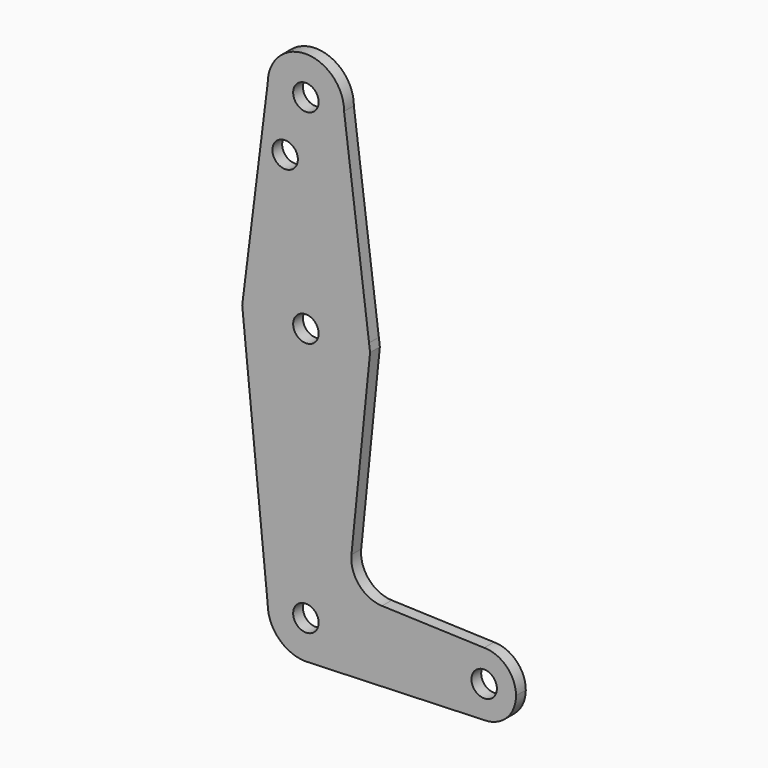
from build123d import *

# Parameters (mm, degrees)
F0_R     = 3.175
F1_DEPTH = 3.048


with BuildPart() as f1:
    # F0 (on Front) → F1 (new body)
    with BuildSketch(Plane.XZ):
        with BuildLine():
            Line((6.4129569231, 19.3691908922), (0.1905000523, 68.1609012961))
            ThreePointArc((0.1905000523, 68.1609012961), (-9.3344999477, 58.6359012961), (-18.8594999477, 68.1609012961))
            Line((-18.8594999477, 68.1609012961), (-24.7210384093, 21.2685936038))
            ThreePointArc((-24.7210384093, 21.2685936038), (-8.3678054821, 33.2064409465), (6.4129569231, 19.3691908922))
        make_face()
        with Locations((-14.5112536848, 53.8861012961)):
            Circle(F0_R, mode=Mode.SUBTRACT)
        with BuildLine():
            ThreePointArc((-18.8594999477, 68.1609012961), (-9.3344999477, 58.6359012961), (0.1905000523, 68.1609012961))
            ThreePointArc((0.1905000523, 68.1609012961), (-9.3344999477, 77.6859012961), (-18.8594999477, 68.1609012961))
        make_face()
        with Locations((-9.3344999477, 68.1609012961)):
            Circle(F0_R, mode=Mode.SUBTRACT)
        with BuildLine():
            ThreePointArc((6.5405000523, 17.3609012961), (6.5085821834, 18.3670690694), (6.4129569231, 19.3691908922))
            ThreePointArc((6.4129569231, 19.3691908922), (-8.3678054821, 33.2064409465), (-24.7210384093, 21.2685936038))
            Line((-24.7210384093, 21.2685936038), (-25.2094999477, 17.3609012961))
            Line((-25.2094999477, 17.3609012961), (-24.8951435121, 14.2173369397))
            ThreePointArc((-24.8951435121, 14.2173369397), (-7.7548784083, 1.5646859016), (6.5405000523, 17.3609012961))
        make_face()
        with Locations((-9.3344999477, 17.3609012961)):
            Circle(F0_R, mode=Mode.SUBTRACT)
        with BuildLine():
            Line((6.6690761551, 17.3609012961), (6.4129569231, 19.3691908922))
            ThreePointArc((6.4129569231, 19.3691908922), (6.5085821834, 18.3670690694), (6.5405000523, 17.3609012961))
            ThreePointArc((6.5405000523, 17.3609012961), (-7.7548784083, 1.5646859016), (-24.8951435121, 14.2173369397))
            Line((-24.8951435121, 14.2173369397), (-18.8594999477, -46.1390987039))
            ThreePointArc((-18.8594999477, -46.1390987039), (-9.3344999477, -36.6140987039), (0.1905000523, -46.1390987039))
            ThreePointArc((0.1905000523, -46.1390987039), (-2.3632098413, -52.6296101823), (-8.6550095019, -55.6398311879))
            Line((-8.6550095019, -55.6398311879), (35.1155000523, -54.0765987039))
            ThreePointArc((35.1155000523, -54.0765987039), (27.1780000523, -46.1390987039), (35.1155000523, -38.2015987039))
            Line((35.1155000523, -38.2015987039), (9.646649469, -37.2919968973))
            ThreePointArc((9.646649469, -37.2919968973), (3.9381775933, -34.5716972044), (2.0206507733, -28.5459381261))
            Line((2.0206507733, -28.5459381261), (6.6690761551, 17.3609012961))
        make_face()
        with BuildLine():
            ThreePointArc((0.1905000523, -46.1390987039), (-9.3344999477, -36.6140987039), (-18.8594999477, -46.1390987039))
            ThreePointArc((-18.8594999477, -46.1390987039), (-16.0696920385, -52.8742907947), (-9.3344999477, -55.6640987039))
            Line((-9.3344999477, -55.6640987039), (-8.6550095019, -55.6398311879))
            ThreePointArc((-8.6550095019, -55.6398311879), (-2.3632098413, -52.6296101823), (0.1905000523, -46.1390987039))
        make_face()
        with Locations((-9.3344999477, -46.1390987039)):
            Circle(F0_R, mode=Mode.SUBTRACT)
        with BuildLine():
            ThreePointArc((43.0530000523, -46.1390987039), (40.7281601279, -40.5264386282), (35.1155000523, -38.2015987039))
            ThreePointArc((35.1155000523, -38.2015987039), (27.1780000523, -46.1390987039), (35.1155000523, -54.0765987039))
            ThreePointArc((35.1155000523, -54.0765987039), (40.7281601279, -51.7517587795), (43.0530000523, -46.1390987039))
        make_face()
        with Locations((35.1155000523, -46.1390987039)):
            Circle(F0_R, mode=Mode.SUBTRACT)
    extrude(amount=F1_DEPTH)


solid = f1.part
